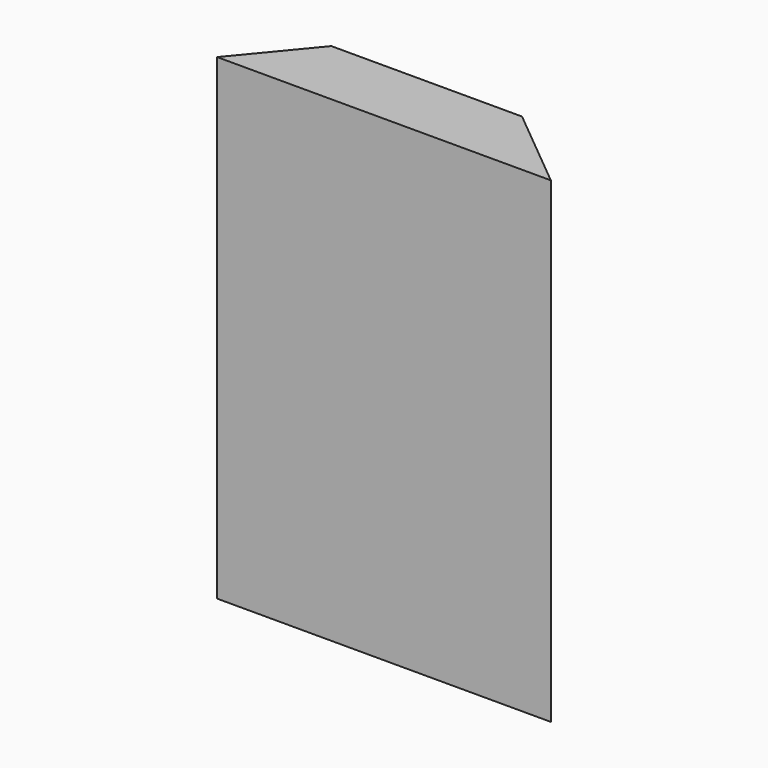
from build123d import *

# Parameters (mm, degrees)
PAD_DEPTH = 100


with BuildPart() as part:
    # Sketch001 → Pad (new body)
    with BuildSketch(Plane.XY):
        Polygon((37.172957, 0), (19.339739, 14.729999), (-20.660261, 14.729999), (-32.827043, 0), align=None)
    extrude(amount=PAD_DEPTH)


solid = part.part
